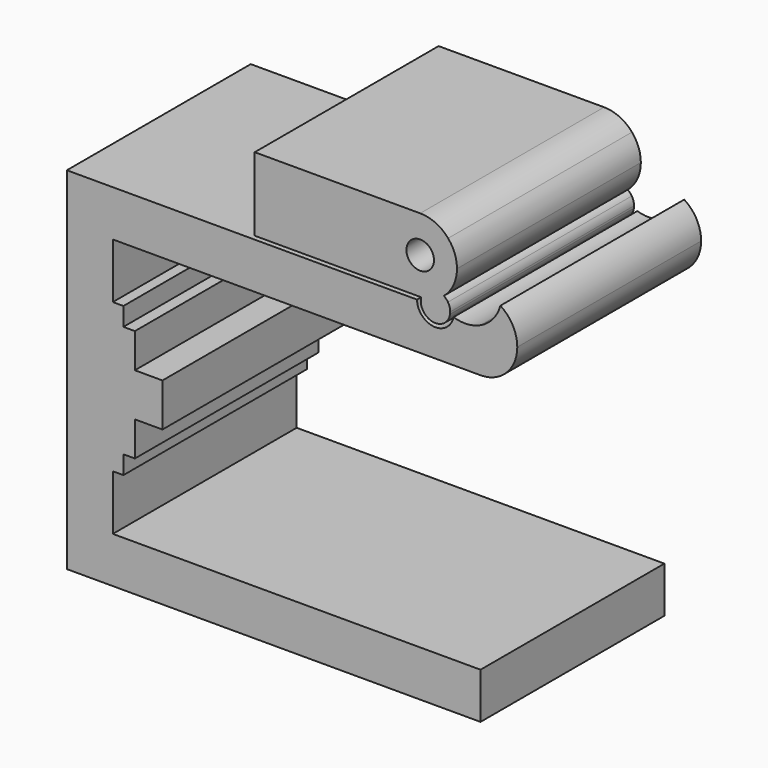
from build123d import *

# Parameters (mm, degrees)
F1_DEPTH = 25
F2_DEPTH = 25


with BuildPart() as f1:
    # F0 (on Front) → F1 (new body)
    with BuildSketch(Plane.XZ):
        with BuildLine():
            Line((40, 14.1), (40, 18.8939742042))
            ThreePointArc((40, 18.8939742042), (38.5488518421, 18.5226917537), (37.0628745806, 18.7112473497))
            ThreePointArc((37.0628745806, 18.7112473497), (36.7169627499, 17.9215558173), (36.0707814976, 17.3508391625))
            ThreePointArc((36.0707814976, 17.3508391625), (37.4501611178, 15.0180652708), (40, 14.1))
        make_face()
        with BuildLine():
            ThreePointArc((42.1605681655, 21.4662954716), (41.3634067603, 19.9423317875), (40, 18.8939742042))
            Line((40, 18.8939742042), (40, 14.1))
            ThreePointArc((40, 14.1), (42.8284271247, 15.2715728753), (44, 18.1))
            ThreePointArc((44, 18.1), (43.5101476224, 20.0180364097), (42.1605681655, 21.4662954716))
        make_face()
        with BuildLine():
            Line((0, 14.1), (40, 14.1))
            ThreePointArc((40, 14.1), (37.4501611178, 15.0180652708), (36.0707814976, 17.3508391625))
            ThreePointArc((36.0707814976, 17.3508391625), (34.0860136096, 17.3767005532), (33.1010205144, 19.1))
            Line((33.1010205144, 19.1), (-5, 19.1))
            Line((-5, 19.1), (-5, -19.1))
            Line((-5, -19.1), (40, -19.1))
            Line((40, -19.1), (40, -14.1))
            Line((40, -14.1), (0, -14.1))
            Line((0, -14.1), (0, -8.1))
            Line((0, -8.1), (1.15, -8.1))
            Line((1.15, -8.1), (1.15, -6.1))
            Line((1.15, -6.1), (2.4, -6.1))
            Line((2.4, -6.1), (2.4, -2.35))
            Line((2.4, -2.35), (5.4, -2.35))
            Line((5.4, -2.35), (5.4, 2.35))
            Line((5.4, 2.35), (2.4, 2.35))
            Line((2.4, 2.35), (2.4, 6.1))
            Line((2.4, 6.1), (1.15, 6.1))
            Line((1.15, 6.1), (1.15, 8.1))
            Line((1.15, 8.1), (0, 8.1))
            Line((0, 8.1), (0, 14.1))
        make_face()
    extrude(amount=F1_DEPTH)


with BuildPart() as f2:
    # F0 (on Front) → F2 (new body)
    with BuildSketch(Plane.XZ):
        with BuildLine():
            Line((15.4382929629, 19.4742342655), (33.1363452958, 19.4742342655))
            ThreePointArc((33.1363452958, 19.4742342655), (33.1374252783, 19.47986017), (33.1385213707, 19.485482958))
            ThreePointArc((33.1385213707, 19.485482958), (29.4411061252, 23.624225549), (33.4382929629, 27.4742342655))
            Line((33.4382929629, 27.4742342655), (15.4382929629, 27.4742342655))
            Line((15.4382929629, 27.4742342655), (15.4382929629, 19.4742342655))
        make_face()
        with BuildLine():
            ThreePointArc((34.7077004549, 24.2733616766), (35.446498397, 25.3176121679), (36.477166245, 26.0752435264))
            ThreePointArc((36.477166245, 26.0752435264), (35.1110097584, 27.1076924697), (33.4382929629, 27.4742342655))
            ThreePointArc((33.4382929629, 27.4742342655), (29.4411061252, 23.624225549), (33.1385213707, 19.485482958))
            ThreePointArc((33.1385213707, 19.485482958), (33.6403644261, 20.4661931751), (34.5853847735, 21.0323870685))
            ThreePointArc((34.5853847735, 21.0323870685), (34.3992082899, 21.6317557624), (34.3090773584, 22.2528684168))
            ThreePointArc((34.3090773584, 22.2528684168), (31.9666599984, 23.7645727194), (34.7077004549, 24.2733616766))
        make_face()
        with BuildLine():
            ThreePointArc((34.5853847735, 21.0323870685), (35.488138453, 21.062177286), (36.311934429, 20.6917561031))
            ThreePointArc((36.311934429, 20.6917561031), (37.146025819, 21.9733288495), (37.4382929629, 23.4742342655))
            ThreePointArc((37.4382929629, 23.4742342655), (37.1903252874, 24.8606878117), (36.477166245, 26.0752435264))
            ThreePointArc((36.477166245, 26.0752435264), (35.446498397, 25.3176121679), (34.7077004549, 24.2733616766))
            ThreePointArc((34.7077004549, 24.2733616766), (34.8794923311, 23.8901000864), (34.9382929629, 23.4742342655))
            ThreePointArc((34.9382929629, 23.4742342655), (34.7717427357, 22.7872759674), (34.3090773584, 22.2528684168))
            ThreePointArc((34.3090773584, 22.2528684168), (34.3992082899, 21.6317557624), (34.5853847735, 21.0323870685))
        make_face()
        with BuildLine():
            ThreePointArc((33.5010205144, 19.1), (34.358810497, 17.6825641849), (36.0124258769, 17.7849561736))
            ThreePointArc((36.0124258769, 17.7849561736), (36.0151002524, 18.4472376729), (36.1270166538, 19.1))
            Line((36.1270166538, 19.1), (33.5010205144, 19.1))
        make_face()
        with BuildLine():
            Line((33.5010205144, 19.1), (36.1270166538, 19.1))
            ThreePointArc((36.1270166538, 19.1), (36.1333880165, 19.1243591992), (36.1399125852, 19.1486778104))
            ThreePointArc((36.1399125852, 19.1486778104), (35.6727510104, 19.4991754751), (35.2616074686, 19.9139640211))
            ThreePointArc((35.2616074686, 19.9139640211), (34.4282391476, 19.5986689453), (33.5457500841, 19.4756779051))
            ThreePointArc((33.5457500841, 19.4756779051), (33.5122422592, 19.2891656832), (33.5010205144, 19.1))
        make_face()
        with BuildLine():
            ThreePointArc((35.2616074686, 19.9139640211), (35.6519847184, 20.142632727), (36.0140427943, 20.4139217315))
            ThreePointArc((36.0140427943, 20.4139217315), (35.4107148653, 20.6697418288), (34.7554346791, 20.6622325148))
            ThreePointArc((34.7554346791, 20.6622325148), (34.9873289358, 20.2737626602), (35.2616074686, 19.9139640211))
        make_face()
        with BuildLine():
            ThreePointArc((36.1399125852, 19.1486778104), (36.2756506061, 19.5591852495), (36.4549032661, 19.9526438264))
            ThreePointArc((36.4549032661, 19.9526438264), (36.2577006483, 20.2054822785), (36.0140427943, 20.4139217315))
            ThreePointArc((36.0140427943, 20.4139217315), (35.6519847184, 20.142632727), (35.2616074686, 19.9139640211))
            ThreePointArc((35.2616074686, 19.9139640211), (35.6727510104, 19.4991754751), (36.1399125852, 19.1486778104))
        make_face()
        with BuildLine():
            ThreePointArc((36.0140427943, 20.4139217315), (36.1665276234, 20.5490444192), (36.311934429, 20.6917561031))
            ThreePointArc((36.311934429, 20.6917561031), (35.488138453, 21.062177286), (34.5853847735, 21.0323870685))
            ThreePointArc((34.5853847735, 21.0323870685), (34.6656947542, 20.845143722), (34.7554346791, 20.6622325148))
            ThreePointArc((34.7554346791, 20.6622325148), (35.4107148653, 20.6697418288), (36.0140427943, 20.4139217315))
        make_face()
        with BuildLine():
            ThreePointArc((33.5457500841, 19.4756779051), (34.4282391476, 19.5986689453), (35.2616074686, 19.9139640211))
            ThreePointArc((35.2616074686, 19.9139640211), (34.9873289358, 20.2737626602), (34.7554346791, 20.6622325148))
            ThreePointArc((34.7554346791, 20.6622325148), (33.9806225511, 20.2422383306), (33.5457500841, 19.4756779051))
        make_face()
        with BuildLine():
            ThreePointArc((36.0124258769, 17.7849561736), (36.4577713767, 18.2519274219), (36.6824356457, 18.8568412398))
            ThreePointArc((36.6824356457, 18.8568412398), (36.4460801799, 18.9707951652), (36.2177043625, 19.1))
            Line((36.2177043625, 19.1), (36.1270166538, 19.1))
            ThreePointArc((36.1270166538, 19.1), (36.0151002524, 18.4472376729), (36.0124258769, 17.7849561736))
        make_face()
        with BuildLine():
            ThreePointArc((34.7554346791, 20.6622325148), (34.6656947542, 20.845143722), (34.5853847735, 21.0323870685))
            ThreePointArc((34.5853847735, 21.0323870685), (33.6403644261, 20.4661931751), (33.1385213707, 19.485482958))
            ThreePointArc((33.1385213707, 19.485482958), (33.2883016793, 19.4770474279), (33.4382929629, 19.4742342655))
            ThreePointArc((33.4382929629, 19.4742342655), (33.4920263719, 19.4745951917), (33.5457500841, 19.4756779051))
            ThreePointArc((33.5457500841, 19.4756779051), (33.9806225511, 20.2422383306), (34.7554346791, 20.6622325148))
        make_face()
        with BuildLine():
            Line((36.2177043625, 19.1), (36.7010205144, 19.1))
            ThreePointArc((36.7010205144, 19.1), (36.638260314, 19.5437271669), (36.4549032661, 19.9526438264))
            ThreePointArc((36.4549032661, 19.9526438264), (36.2756506061, 19.5591852495), (36.1399125852, 19.1486778104))
            ThreePointArc((36.1399125852, 19.1486778104), (36.1786688757, 19.1241158141), (36.2177043625, 19.1))
        make_face()
        with BuildLine():
            ThreePointArc((36.6824356457, 18.8568412398), (36.6963675315, 18.9780660219), (36.7010205144, 19.1))
            Line((36.7010205144, 19.1), (36.2177043625, 19.1))
            ThreePointArc((36.2177043625, 19.1), (36.4460801799, 18.9707951652), (36.6824356457, 18.8568412398))
        make_face()
        with BuildLine():
            Line((36.1270166538, 19.1), (36.2177043625, 19.1))
            ThreePointArc((36.2177043625, 19.1), (36.1786688757, 19.1241158141), (36.1399125852, 19.1486778104))
            ThreePointArc((36.1399125852, 19.1486778104), (36.1333880165, 19.1243591992), (36.1270166538, 19.1))
        make_face()
    extrude(amount=F2_DEPTH)


solid = Compound([f1.part, f2.part])
